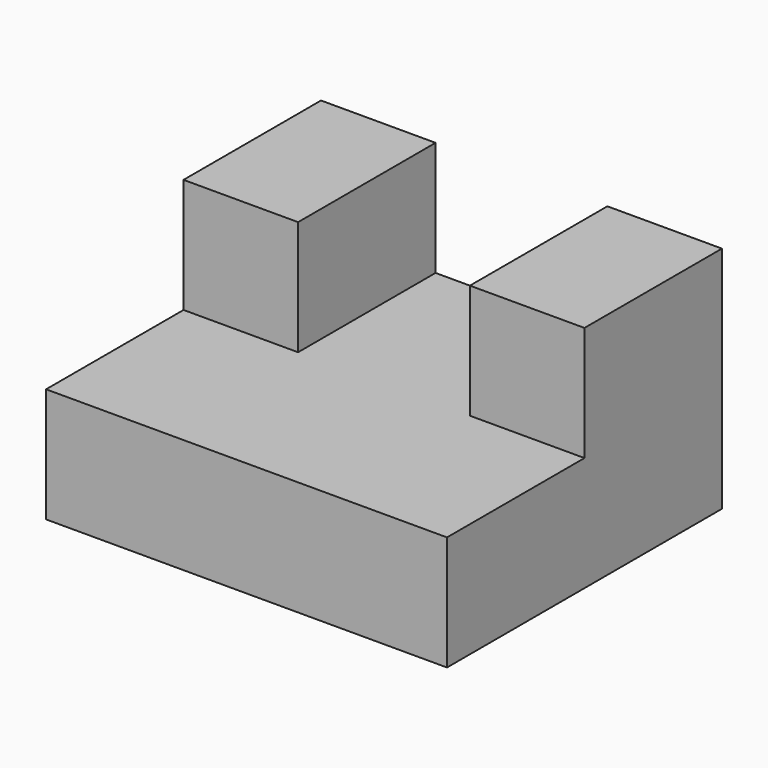
from build123d import *

# Parameters (mm, degrees)
F1_DEPTH = 88.9
F2_W     = 38.1
F2_H     = 25.4
F3_DEPTH = 38.101


with BuildPart() as f1:
    # F0 (on Right) → F1 (new body)
    with BuildSketch(Plane.YZ):
        Polygon((-37.39069, -1.553723), (-37.39069, -26.953723), (38.80931, -26.953723), (38.80931, 23.846277), (0.70931, 23.846277), (0.70931, -1.553723), align=None)
    extrude(amount=-F1_DEPTH)

    # F2 (on face) → F3 (cut, through all)
    with BuildSketch(Plane.XZ.offset(-0.70931)):
        with Locations((-44.45, 11.146277)):
            Rectangle(F2_W, F2_H)
    extrude(amount=-F3_DEPTH, mode=Mode.SUBTRACT)


solid = f1.part
